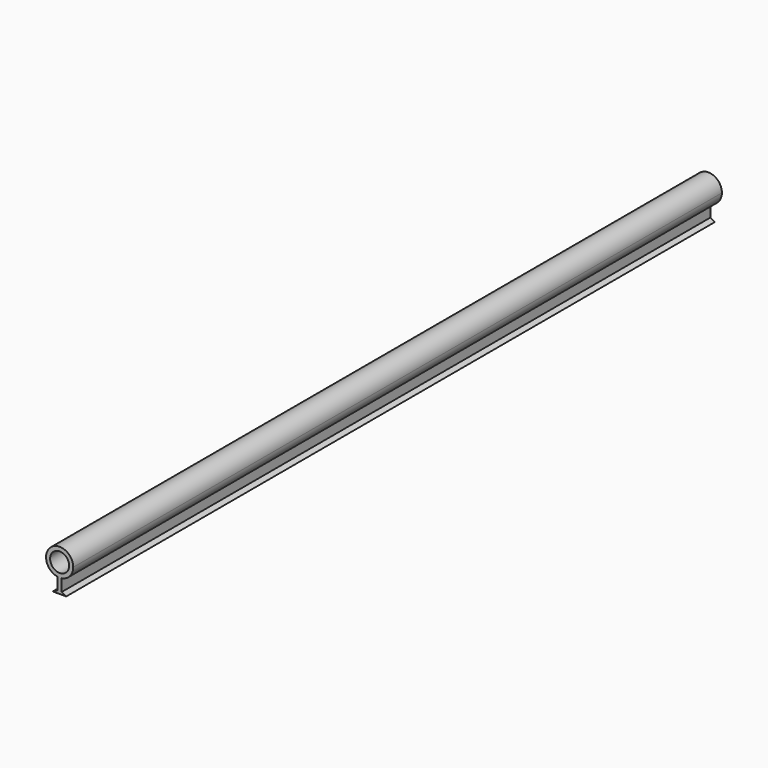
from build123d import *

# Parameters (mm, degrees)
F0_R     = 2.35
F1_DEPTH = 200


with BuildPart() as f1:
    # F0 (on Front) → F1 (new body)
    with BuildSketch(Plane.XZ):
        with BuildLine():
            ThreePointArc((0.5, -3.312476), (0, -3.35), (-0.5, -3.312476))
            Line((-0.5, -3.312476), (-0.5, -6.312476))
            Line((-0.5, -6.312476), (0.5, -6.312476))
            Line((0.5, -6.312476), (0.5, -3.312476))
        make_face()
        with BuildLine():
            Line((0.5, -3.312476), (-0.5, -3.312476))
            ThreePointArc((-0.5, -3.312476), (0, -3.35), (0.5, -3.312476))
        make_face()
        with BuildLine():
            ThreePointArc((0.5, -3.312476), (2.539439, -2.184891), (3.35, 0))
            ThreePointArc((3.35, 0), (-2.184891, 2.539439), (-0.5, -3.312476))
            Line((-0.5, -3.312476), (0.5, -3.312476))
        make_face()
        Circle(F0_R, mode=Mode.SUBTRACT)
        Polygon((0.5, -6.312476), (-0.5, -6.312476), (-1.705153, -6.910453), (1.628228, -6.910453), align=None)
    extrude(amount=F1_DEPTH)


solid = f1.part
